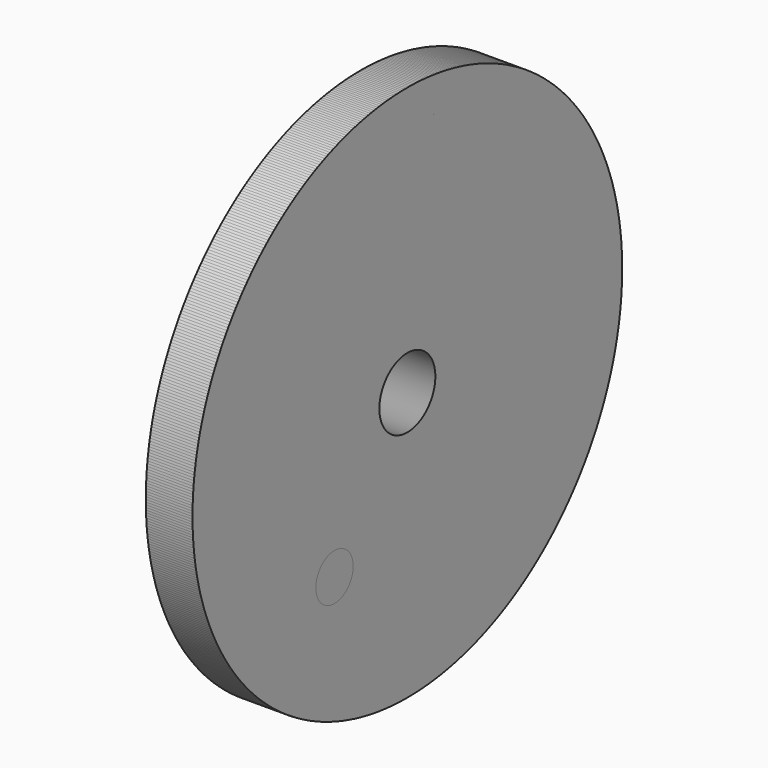
from build123d import *

# Parameters (mm, degrees)
F3_D     = 12.7
F4_COUNT = 10


with BuildPart() as f1:
    # F0 (on Front) → F1 (revolve)
    with BuildSketch(Plane.XZ):
        Polygon((0, 25.4), (0, 9.525), (25.4, 9.525), (25.4, 73.025), (12.7, 73.025), (12.7, 25.4), align=None)
    revolve(axis=Axis((12.7, 0, 0), (1, 0, 0)))

    # F3 (through all)
    with Locations(Plane(origin=(0, 0, 0), x_dir=(0, 1, 0), z_dir=(-1, 0, 0))):
        with Locations((0, 42.119261)):
            Hole(F3_D / 2)


with BuildPart() as f4_1:
    # F4: instance of F1
    add(f1.part.rotate(Axis((0, 0, 0), (1, 0, 0)), 1 * 360 / F4_COUNT))


with BuildPart() as f4_2:
    # F4: instance of F1
    add(f1.part.rotate(Axis((0, 0, 0), (1, 0, 0)), 2 * 360 / F4_COUNT))


with BuildPart() as f4_3:
    # F4: instance of F1
    add(f1.part.rotate(Axis((0, 0, 0), (1, 0, 0)), 3 * 360 / F4_COUNT))


with BuildPart() as f4_4:
    # F4: instance of F1
    add(f1.part.rotate(Axis((0, 0, 0), (1, 0, 0)), 4 * 360 / F4_COUNT))


with BuildPart() as f4_5:
    # F4: instance of F1
    add(f1.part.rotate(Axis((0, 0, 0), (1, 0, 0)), 5 * 360 / F4_COUNT))


with BuildPart() as f4_6:
    # F4: instance of F1
    add(f1.part.rotate(Axis((0, 0, 0), (1, 0, 0)), 6 * 360 / F4_COUNT))


with BuildPart() as f4_7:
    # F4: instance of F1
    add(f1.part.rotate(Axis((0, 0, 0), (1, 0, 0)), 7 * 360 / F4_COUNT))


with BuildPart() as f4_8:
    # F4: instance of F1
    add(f1.part.rotate(Axis((0, 0, 0), (1, 0, 0)), 8 * 360 / F4_COUNT))


with BuildPart() as f4_9:
    # F4: instance of F1
    add(f1.part.rotate(Axis((0, 0, 0), (1, 0, 0)), 9 * 360 / F4_COUNT))


solid = Compound([f1.part, f4_1.part, f4_2.part, f4_3.part, f4_4.part, f4_5.part, f4_6.part, f4_7.part, f4_8.part, f4_9.part])
